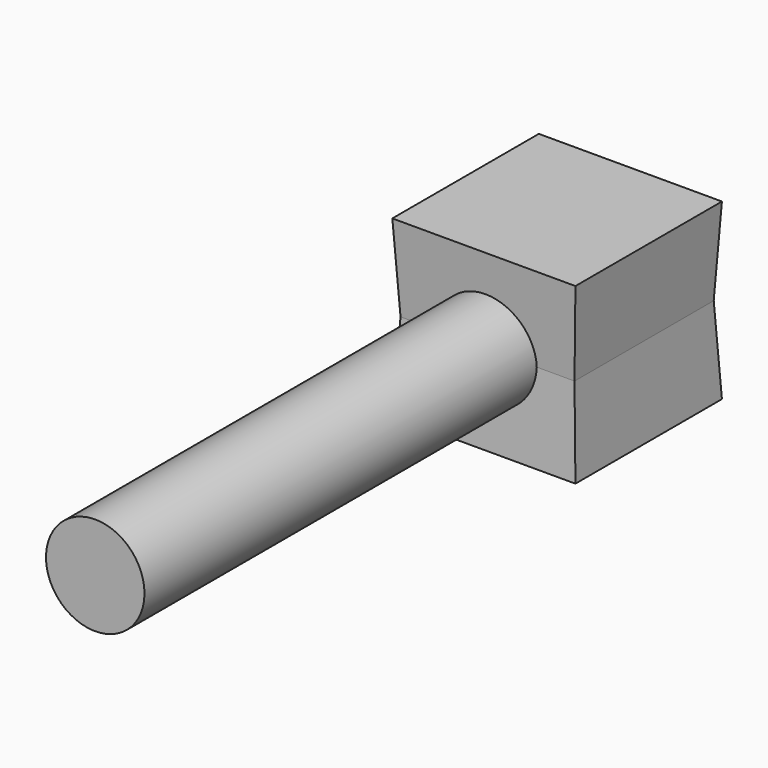
from build123d import *

# Parameters (mm, degrees)
F0_W     = 12.7
F0_H     = 25.4
F1_DEPTH = 12.7
F1_TAPER = -3
F2_R     = 7.189125638


with BuildPart() as f1:
    # F0 (on Top) → F1 (new body, symmetric)
    with BuildSketch(Plane.XY):
        with Locations((6.35, 84.2818446611)):
            Rectangle(F0_W, F0_H)
        with Locations((-6.35, 84.2818446611)):
            Rectangle(F0_W, F0_H)
    extrude(amount=F1_DEPTH, both=True, taper=F1_TAPER)

    # F2 (on Front) → F3 (join, up to the next surface of F1)
    with BuildSketch(Plane.XZ):
        Circle(F2_R)
    extrude(until=Until.NEXT, dir=(0, 1, 0))


solid = f1.part
